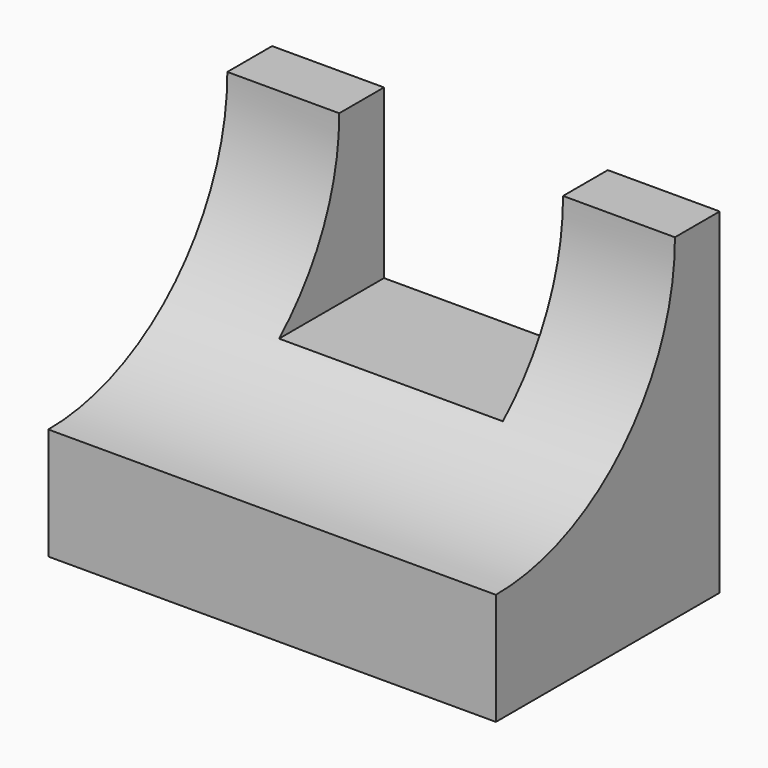
from build123d import *

# Parameters (mm, degrees)
F0_W     = 50.8
F0_H     = 38.1
F1_DEPTH = 31.75
F3_DEPTH = 50.8
F4_W     = 25.4
F4_H     = 19.05
F5_DEPTH = 50.8


with BuildPart() as f1:
    # F0 (on Front) → F1 (new body)
    with BuildSketch(Plane.XZ):
        with Locations((-34.532589, 19.05)):
            Rectangle(F0_W, F0_H)
    extrude(amount=F1_DEPTH)

    # F2 (on face) → F3 (cut)
    with BuildSketch(Plane.YZ.offset(-9.132589)):
        with BuildLine():
            Line((-31.75, 38.1), (-31.75, 12.7))
            ThreePointArc((-31.75, 12.7), (-13.759905, 20.109905), (-6.35, 38.1))
            Line((-6.35, 38.1), (-31.75, 38.1))
        make_face()
    extrude(amount=-F3_DEPTH, mode=Mode.SUBTRACT)

    # F4 (on face) → F5 (cut)
    with BuildSketch(Plane(origin=(0, 0, 0), x_dir=(-1, 0, 0), z_dir=(0, 1, 0))):
        with Locations((34.532589, 28.575)):
            Rectangle(F4_W, F4_H)
    extrude(amount=-F5_DEPTH, mode=Mode.SUBTRACT)


solid = f1.part
